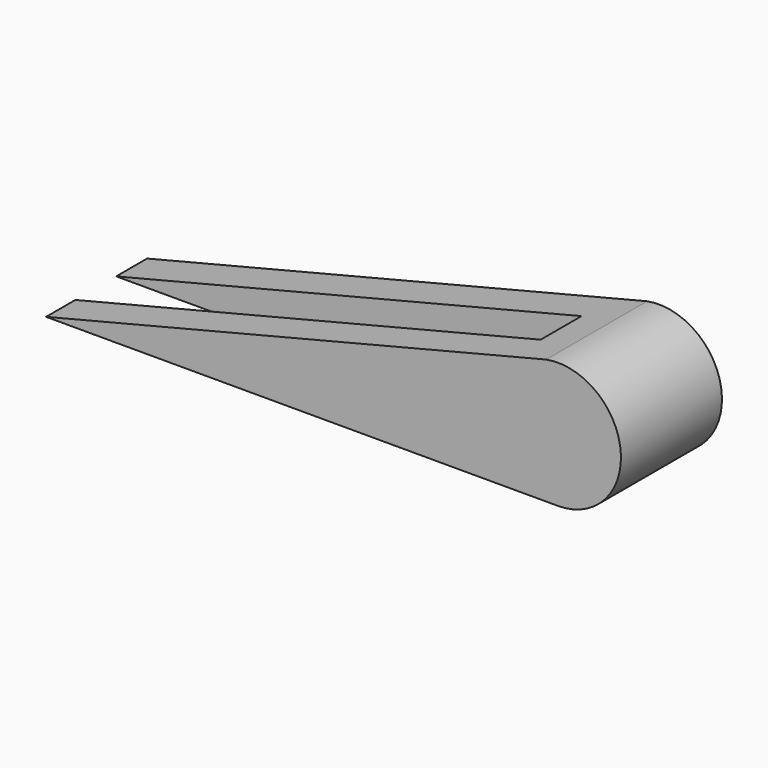
from build123d import *

# Parameters (mm, degrees)
F1_DEPTH      = 18.288
F2_W          = 7.3942900635
F2_H          = 31.8523226306
F3_DEPTH      = 54.864
F3_DEPTH_BACK = 25.4


with BuildPart() as f1:
    # F0 (on Front) → F1 (new body)
    with BuildSketch(Plane.XZ):
        with BuildLine():
            ThreePointArc((32.1367196739, 0), (41.2300981045, 9.9906376072), (30.4303448647, 18.1065294892))
            Line((30.4303448647, 18.1065294892), (-41.9957712293, 0))
            Line((-41.9957712293, 0), (32.1367196739, 0))
        make_face()
    extrude(amount=F1_DEPTH)

    # F2 (on Right) → F3 (cut, two sides)
    with BuildSketch(Plane.YZ) as f3_sk:
        with Locations((-9.2902609613, 7.1098939516)):
            Rectangle(F2_W, F2_H)
    extrude(amount=-F3_DEPTH, mode=Mode.SUBTRACT)
    extrude(f3_sk.sketch, amount=F3_DEPTH_BACK, mode=Mode.SUBTRACT)


solid = f1.part
